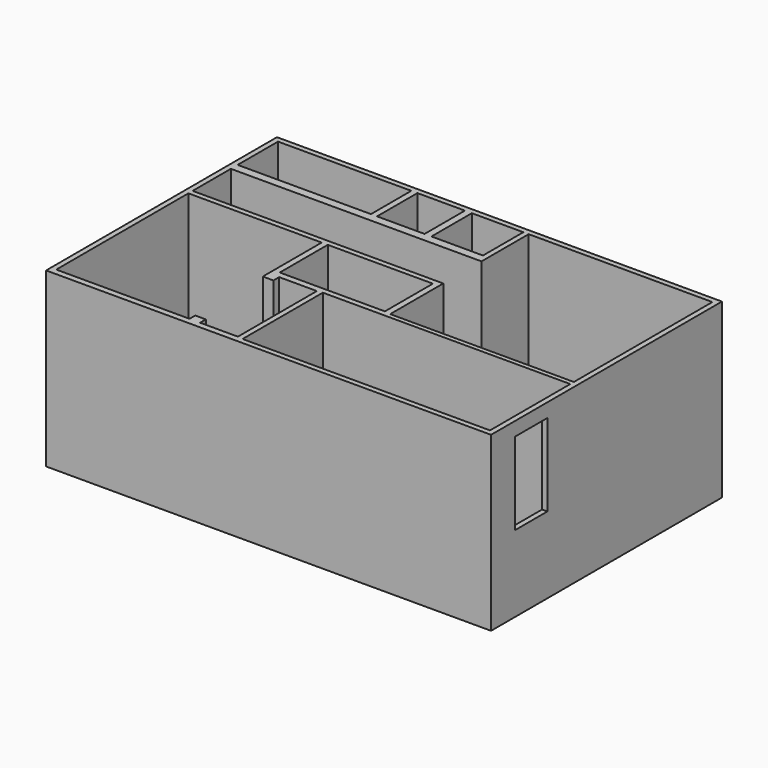
from build123d import *

# Parameters (mm, degrees)
F0_W     = 838
F0_H     = 543.5
F0_W_2   = 20
F0_H_2   = 13.5
F1_DEPTH = 325
F2_W     = 76.5
F2_H     = 155
F3_DEPTH = 25


with BuildPart() as f1:
    # F0 (on Top) → F1 (new body)
    with BuildSketch(Plane.XY):
        with Locations((57, 74.25)):
            Rectangle(F0_W, F0_H)
        Polygon((466, 1.5), (466, 0), (466, -186), (466, -187.5), (0, -187.5), (0, -186), (-10, -186), (-81, -186), (-101, -186), (-148.9498094916, -186), (-278.9498094916, -186), (-352, -186), (-352, 125), (-352, 135), (-352, 225), (-352, 241), (-352, 336), (-101, 336), (-89.5, 336), (0, 336), (13, 336), (110, 336), (120, 336), (466, 336), (466, 276), (466, 10), align=None, mode=Mode.SUBTRACT)
        Polygon((0, -186), (0, 0), (0, 1.5), (466, 1.5), (466, 10), (120, 10), (120, 135), (-352, 135), (-352, 125), (-101, 125), (-101, -13.5), (-81, -13.5), (-81, 0), (-10, 0), (-10, -186), align=None)
        Polygon((-89.5, 12), (-89.5, 125), (-0.5, 125), (108.5, 125), (108.5, 12), (-0.5, 12), align=None, mode=Mode.SUBTRACT)
        Polygon((120, 225), (120, 276), (120, 336), (110, 336), (110, 241), (13, 241), (13, 336), (0, 336), (0, 241), (-89.5, 241), (-89.5, 336), (-101, 336), (-101, 241), (-352, 241), (-352, 225), align=None)
        with Locations((-91, -179.25)):
            Rectangle(F0_W_2, F0_H_2)
    extrude(amount=F1_DEPTH)

    # F2 (on face) → F3 (cut)
    with BuildSketch(Plane.YZ.offset(476)):
        with Locations((-103.25, 221.5)):
            Rectangle(F2_W, F2_H)
    extrude(amount=-F3_DEPTH, mode=Mode.SUBTRACT)


solid = f1.part
